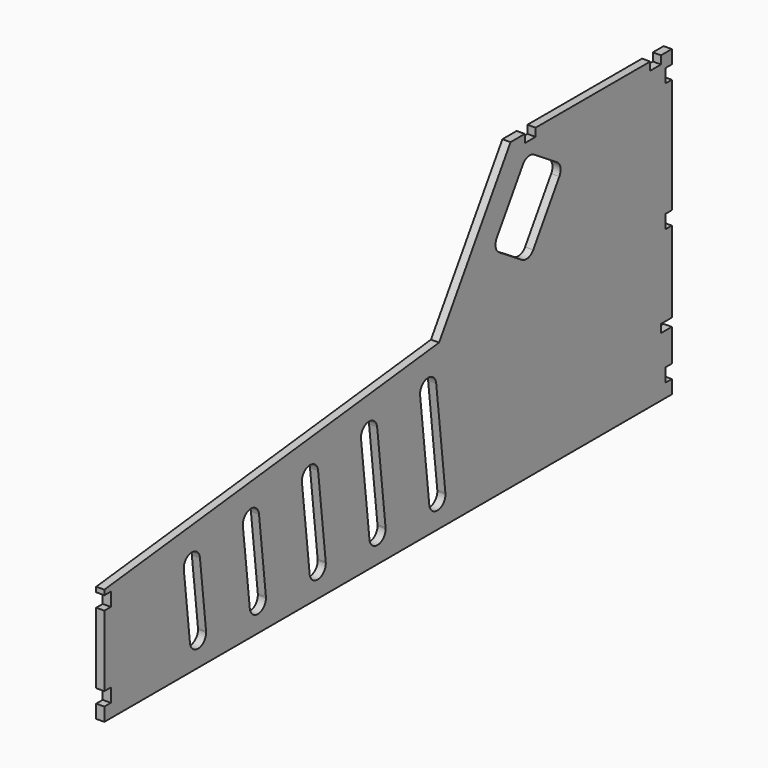
from build123d import *

# Parameters (mm, degrees)
F0_W     = 200
F0_H     = 460
F1_DEPTH = 12
F2_W     = 12
F2_H     = 20
F2_W_2   = 20
F2_H_2   = 22
F3_DEPTH = 25
F4_R     = 15
F5_W     = 20
F5_H     = 12
F6_DEPTH = 25
F7_DEPTH = 10
F8_DEPTH = 25


with BuildPart() as f1:
    # F0 (on Right) → F1 (new body)
    with BuildSketch(Plane.YZ):
        with BuildLine():
            Line((-738, 185), (-738, 134.6797614515))
            Line((-738, 134.6797614515), (-702.9045398359, 138.6581941826))
            ThreePointArc((-702.9045398359, 138.6581941826), (-689.6895834632, 155.2523174818), (-673.0954601641, 142.037361109))
            Line((-673.0954601641, 142.037361109), (-593.6045810391, 151.0484729126))
            ThreePointArc((-593.6045810391, 151.0484729126), (-580.3896246663, 167.6425962118), (-563.7955013672, 154.427639839))
            Line((-563.7955013672, 154.427639839), (-484.3046222422, 163.4387516427))
            ThreePointArc((-484.3046222422, 163.4387516427), (-471.0896658695, 180.0328749418), (-454.4955425704, 166.817918569))
            Line((-454.4955425704, 166.817918569), (-375.0046634454, 175.8290303727))
            ThreePointArc((-375.0046634454, 175.8290303727), (-361.7897070726, 192.4231536718), (-345.1955837735, 179.208197299))
            Line((-345.1955837735, 179.208197299), (-265.7047046485, 188.2193091027))
            ThreePointArc((-265.7047046485, 188.2193091027), (-252.4897482758, 204.8134324018), (-235.8956249767, 191.598476029))
            Line((-235.8956249767, 191.598476029), (-201.2256178564, 195.5286792653))
            Line((-201.2256178564, 195.5286792653), (-123.5209909069, 317.4817743388))
            Line((-123.5209909069, 317.4817743388), (-131.9545312744, 322.8553575818))
            Line((-131.9545312744, 322.8553575818), (-67.4715323582, 424.0578419919))
            Line((-67.4715323582, 424.0578419919), (-59.0379919907, 418.6842587489))
            Line((-59.0379919907, 418.6842587489), (-32.7129179192, 460))
            Line((-32.7129179192, 460), (-92, 460))
            Line((-92, 460), (-100.5596901216, 446.5660418925))
            Line((-100.5596901216, 446.5660418925), (-230.5697625024, 242.5224560726))
            Line((-230.5697625024, 242.5224560726), (-738, 185))
        make_face()
        with BuildLine():
            Line((-738, 185), (-738, 134.6797614515))
            Line((-738, 134.6797614515), (-702.9045398359, 138.6581941826))
            ThreePointArc((-702.9045398359, 138.6581941826), (-689.6895834632, 155.2523174818), (-673.0954601641, 142.037361109))
            Line((-673.0954601641, 142.037361109), (-593.6045810391, 151.0484729126))
            ThreePointArc((-593.6045810391, 151.0484729126), (-580.3896246663, 167.6425962118), (-563.7955013672, 154.427639839))
            Line((-563.7955013672, 154.427639839), (-484.3046222422, 163.4387516427))
            ThreePointArc((-484.3046222422, 163.4387516427), (-471.0896658695, 180.0328749418), (-454.4955425704, 166.817918569))
            Line((-454.4955425704, 166.817918569), (-375.0046634454, 175.8290303727))
            ThreePointArc((-375.0046634454, 175.8290303727), (-361.7897070726, 192.4231536718), (-345.1955837735, 179.208197299))
            Line((-345.1955837735, 179.208197299), (-265.7047046485, 188.2193091027))
            ThreePointArc((-265.7047046485, 188.2193091027), (-252.4897482758, 204.8134324018), (-235.8956249767, 191.598476029))
            Line((-235.8956249767, 191.598476029), (-201.2256178564, 195.5286792653))
            Line((-201.2256178564, 195.5286792653), (-123.5209909069, 317.4817743388))
            Line((-123.5209909069, 317.4817743388), (-131.9545312744, 322.8553575818))
            Line((-131.9545312744, 322.8553575818), (-67.4715323582, 424.0578419919))
            Line((-67.4715323582, 424.0578419919), (-59.0379919907, 418.6842587489))
            Line((-59.0379919907, 418.6842587489), (-32.7129179192, 460))
            Line((-32.7129179192, 460), (-92, 460))
            Line((-92, 460), (-100.5596901216, 446.5660418925))
            Line((-100.5596901216, 446.5660418925), (-230.5697625024, 242.5224560726))
            Line((-230.5697625024, 242.5224560726), (-738, 185))
        make_face()
        with BuildLine():
            Line((-593.6045810391, 151.0484729126), (-673.0954601641, 142.037361109))
            Line((-673.0954601641, 142.037361109), (-661.7200035888, 41.6895834632))
            ThreePointArc((-661.7200035888, 41.6895834632), (-661.6484274807, 40.8461390137), (-661.6245434248, 40))
            Line((-661.6245434248, 40), (-581.0160901826, 40))
            Line((-581.0160901826, 40), (-593.6045810391, 151.0484729126))
        make_face()
        with BuildLine():
            Line((-738, 0), (0, 0))
            Line((0, 0), (0, 460))
            Line((0, 460), (-32.7129179192, 460))
            Line((-32.7129179192, 460), (-59.0379919907, 418.6842587489))
            Line((-59.0379919907, 418.6842587489), (-0.0032094182, 381.0691760478))
            Line((-0.0032094182, 381.0691760478), (-64.4862083343, 279.8666916377))
            Line((-64.4862083343, 279.8666916377), (-123.5209909069, 317.4817743388))
            Line((-123.5209909069, 317.4817743388), (-201.2256178564, 195.5286792653))
            Line((-201.2256178564, 195.5286792653), (-231.0372798934, 148.7409319016))
            Line((-231.0372798934, 148.7409319016), (-218.9019043619, 41.6895834632))
            ThreePointArc((-218.9019043619, 41.6895834632), (-218.8303282538, 40.8461390137), (-218.8064441979, 40))
            ThreePointArc((-218.8064441979, 40), (-232.9603051842, 25.023884056), (-248.7109840338, 38.3104165368))
            Line((-248.7109840338, 38.3104165368), (-248.9025157624, 40))
            Line((-248.9025157624, 40), (-329.5109690046, 40))
            ThreePointArc((-329.5109690046, 40), (-343.6648299909, 25.023884056), (-359.4155088405, 38.3104165368))
            Line((-359.4155088405, 38.3104165368), (-359.6070405691, 40))
            Line((-359.6070405691, 40), (-440.2154938113, 40))
            ThreePointArc((-440.2154938113, 40), (-454.3693547976, 25.023884056), (-470.1200336472, 38.3104165368))
            Line((-470.1200336472, 38.3104165368), (-470.3115653759, 40))
            Line((-470.3115653759, 40), (-550.920018618, 40))
            ThreePointArc((-550.920018618, 40), (-565.0738796043, 25.023884056), (-580.824558454, 38.3104165368))
            Line((-580.824558454, 38.3104165368), (-581.0160901826, 40))
            Line((-581.0160901826, 40), (-661.6245434248, 40))
            ThreePointArc((-661.6245434248, 40), (-675.7784044111, 25.023884056), (-691.5290832607, 38.3104165368))
            Line((-691.5290832607, 38.3104165368), (-702.9045398359, 138.6581941826))
            Line((-702.9045398359, 138.6581941826), (-738, 134.6797614515))
            Line((-738, 134.6797614515), (-738, 0))
        make_face()
        with BuildLine():
            Line((-484.3046222422, 163.4387516427), (-563.7955013672, 154.427639839))
            Line((-563.7955013672, 154.427639839), (-551.0154787821, 41.6895834632))
            ThreePointArc((-551.0154787821, 41.6895834632), (-550.943902674, 40.8461390137), (-550.920018618, 40))
            Line((-550.920018618, 40), (-470.3115653759, 40))
            Line((-470.3115653759, 40), (-484.3046222422, 163.4387516427))
        make_face()
        with BuildLine():
            Line((-738, 185), (-738, 134.6797614515))
            Line((-738, 134.6797614515), (-702.9045398359, 138.6581941826))
            ThreePointArc((-702.9045398359, 138.6581941826), (-689.6895834632, 155.2523174818), (-673.0954601641, 142.037361109))
            Line((-673.0954601641, 142.037361109), (-593.6045810391, 151.0484729126))
            ThreePointArc((-593.6045810391, 151.0484729126), (-580.3896246663, 167.6425962118), (-563.7955013672, 154.427639839))
            Line((-563.7955013672, 154.427639839), (-484.3046222422, 163.4387516427))
            ThreePointArc((-484.3046222422, 163.4387516427), (-471.0896658695, 180.0328749418), (-454.4955425704, 166.817918569))
            Line((-454.4955425704, 166.817918569), (-375.0046634454, 175.8290303727))
            ThreePointArc((-375.0046634454, 175.8290303727), (-361.7897070726, 192.4231536718), (-345.1955837735, 179.208197299))
            Line((-345.1955837735, 179.208197299), (-265.7047046485, 188.2193091027))
            ThreePointArc((-265.7047046485, 188.2193091027), (-252.4897482758, 204.8134324018), (-235.8956249767, 191.598476029))
            Line((-235.8956249767, 191.598476029), (-201.2256178564, 195.5286792653))
            Line((-201.2256178564, 195.5286792653), (-123.5209909069, 317.4817743388))
            Line((-123.5209909069, 317.4817743388), (-131.9545312744, 322.8553575818))
            Line((-131.9545312744, 322.8553575818), (-67.4715323582, 424.0578419919))
            Line((-67.4715323582, 424.0578419919), (-59.0379919907, 418.6842587489))
            Line((-59.0379919907, 418.6842587489), (-32.7129179192, 460))
            Line((-32.7129179192, 460), (-92, 460))
            Line((-92, 460), (-100.5596901216, 446.5660418925))
            Line((-100.5596901216, 446.5660418925), (-230.5697625024, 242.5224560726))
            Line((-230.5697625024, 242.5224560726), (-738, 185))
        make_face()
        with BuildLine():
            Line((-738, 185), (-738, 134.6797614515))
            Line((-738, 134.6797614515), (-702.9045398359, 138.6581941826))
            ThreePointArc((-702.9045398359, 138.6581941826), (-689.6895834632, 155.2523174818), (-673.0954601641, 142.037361109))
            Line((-673.0954601641, 142.037361109), (-593.6045810391, 151.0484729126))
            ThreePointArc((-593.6045810391, 151.0484729126), (-580.3896246663, 167.6425962118), (-563.7955013672, 154.427639839))
            Line((-563.7955013672, 154.427639839), (-484.3046222422, 163.4387516427))
            ThreePointArc((-484.3046222422, 163.4387516427), (-471.0896658695, 180.0328749418), (-454.4955425704, 166.817918569))
            Line((-454.4955425704, 166.817918569), (-375.0046634454, 175.8290303727))
            ThreePointArc((-375.0046634454, 175.8290303727), (-361.7897070726, 192.4231536718), (-345.1955837735, 179.208197299))
            Line((-345.1955837735, 179.208197299), (-265.7047046485, 188.2193091027))
            ThreePointArc((-265.7047046485, 188.2193091027), (-252.4897482758, 204.8134324018), (-235.8956249767, 191.598476029))
            Line((-235.8956249767, 191.598476029), (-201.2256178564, 195.5286792653))
            Line((-201.2256178564, 195.5286792653), (-123.5209909069, 317.4817743388))
            Line((-123.5209909069, 317.4817743388), (-131.9545312744, 322.8553575818))
            Line((-131.9545312744, 322.8553575818), (-67.4715323582, 424.0578419919))
            Line((-67.4715323582, 424.0578419919), (-59.0379919907, 418.6842587489))
            Line((-59.0379919907, 418.6842587489), (-32.7129179192, 460))
            Line((-32.7129179192, 460), (-92, 460))
            Line((-92, 460), (-100.5596901216, 446.5660418925))
            Line((-100.5596901216, 446.5660418925), (-230.5697625024, 242.5224560726))
            Line((-230.5697625024, 242.5224560726), (-738, 185))
        make_face()
        with BuildLine():
            Line((-375.0046634454, 175.8290303727), (-454.4955425704, 166.817918569))
            Line((-454.4955425704, 166.817918569), (-440.3109539754, 41.6895834632))
            ThreePointArc((-440.3109539754, 41.6895834632), (-440.2393778673, 40.8461390137), (-440.2154938113, 40))
            Line((-440.2154938113, 40), (-359.6070405691, 40))
            Line((-359.6070405691, 40), (-375.0046634454, 175.8290303727))
        make_face()
        with BuildLine():
            Line((-256.6691814309, 108.513086433), (-265.7047046485, 188.2193091027))
            Line((-265.7047046485, 188.2193091027), (-345.1955837735, 179.208197299))
            Line((-345.1955837735, 179.208197299), (-329.6064291686, 41.6895834632))
            ThreePointArc((-329.6064291686, 41.6895834632), (-329.5348530605, 40.8461390137), (-329.5109690046, 40))
            Line((-329.5109690046, 40), (-248.9025157624, 40))
            Line((-248.9025157624, 40), (-256.6691814309, 108.513086433))
        make_face()
        with BuildLine():
            Line((-738, 185), (-738, 134.6797614515))
            Line((-738, 134.6797614515), (-702.9045398359, 138.6581941826))
            ThreePointArc((-702.9045398359, 138.6581941826), (-689.6895834632, 155.2523174818), (-673.0954601641, 142.037361109))
            Line((-673.0954601641, 142.037361109), (-593.6045810391, 151.0484729126))
            ThreePointArc((-593.6045810391, 151.0484729126), (-580.3896246663, 167.6425962118), (-563.7955013672, 154.427639839))
            Line((-563.7955013672, 154.427639839), (-484.3046222422, 163.4387516427))
            ThreePointArc((-484.3046222422, 163.4387516427), (-471.0896658695, 180.0328749418), (-454.4955425704, 166.817918569))
            Line((-454.4955425704, 166.817918569), (-375.0046634454, 175.8290303727))
            ThreePointArc((-375.0046634454, 175.8290303727), (-361.7897070726, 192.4231536718), (-345.1955837735, 179.208197299))
            Line((-345.1955837735, 179.208197299), (-265.7047046485, 188.2193091027))
            ThreePointArc((-265.7047046485, 188.2193091027), (-252.4897482758, 204.8134324018), (-235.8956249767, 191.598476029))
            Line((-235.8956249767, 191.598476029), (-201.2256178564, 195.5286792653))
            Line((-201.2256178564, 195.5286792653), (-123.5209909069, 317.4817743388))
            Line((-123.5209909069, 317.4817743388), (-131.9545312744, 322.8553575818))
            Line((-131.9545312744, 322.8553575818), (-67.4715323582, 424.0578419919))
            Line((-67.4715323582, 424.0578419919), (-59.0379919907, 418.6842587489))
            Line((-59.0379919907, 418.6842587489), (-32.7129179192, 460))
            Line((-32.7129179192, 460), (-92, 460))
            Line((-92, 460), (-100.5596901216, 446.5660418925))
            Line((-100.5596901216, 446.5660418925), (-230.5697625024, 242.5224560726))
            Line((-230.5697625024, 242.5224560726), (-738, 185))
        make_face()
        Polygon((-231.0372798934, 148.7409319016), (-201.2256178564, 195.5286792653), (-235.8956249767, 191.598476029), align=None)
        with Locations((100, 230)):
            Rectangle(F0_W, F0_H)
        with BuildLine():
            Line((-593.6045810391, 151.0484729126), (-673.0954601641, 142.037361109))
            Line((-673.0954601641, 142.037361109), (-661.7200035888, 41.6895834632))
            ThreePointArc((-661.7200035888, 41.6895834632), (-661.6484274807, 40.8461390137), (-661.6245434248, 40))
            Line((-661.6245434248, 40), (-581.0160901826, 40))
            Line((-581.0160901826, 40), (-593.6045810391, 151.0484729126))
        make_face()
        with BuildLine():
            Line((-484.3046222422, 163.4387516427), (-563.7955013672, 154.427639839))
            Line((-563.7955013672, 154.427639839), (-551.0154787821, 41.6895834632))
            ThreePointArc((-551.0154787821, 41.6895834632), (-550.943902674, 40.8461390137), (-550.920018618, 40))
            Line((-550.920018618, 40), (-470.3115653759, 40))
            Line((-470.3115653759, 40), (-484.3046222422, 163.4387516427))
        make_face()
        with BuildLine():
            Line((-375.0046634454, 175.8290303727), (-454.4955425704, 166.817918569))
            Line((-454.4955425704, 166.817918569), (-440.3109539754, 41.6895834632))
            ThreePointArc((-440.3109539754, 41.6895834632), (-440.2393778673, 40.8461390137), (-440.2154938113, 40))
            Line((-440.2154938113, 40), (-359.6070405691, 40))
            Line((-359.6070405691, 40), (-375.0046634454, 175.8290303727))
        make_face()
        with BuildLine():
            Line((-256.6691814309, 108.513086433), (-265.7047046485, 188.2193091027))
            Line((-265.7047046485, 188.2193091027), (-345.1955837735, 179.208197299))
            Line((-345.1955837735, 179.208197299), (-329.6064291686, 41.6895834632))
            ThreePointArc((-329.6064291686, 41.6895834632), (-329.5348530605, 40.8461390137), (-329.5109690046, 40))
            Line((-329.5109690046, 40), (-248.9025157624, 40))
            Line((-248.9025157624, 40), (-256.6691814309, 108.513086433))
        make_face()
        with BuildLine():
            Line((-738, 0), (0, 0))
            Line((0, 0), (0, 460))
            Line((0, 460), (-32.7129179192, 460))
            Line((-32.7129179192, 460), (-59.0379919907, 418.6842587489))
            Line((-59.0379919907, 418.6842587489), (-0.0032094182, 381.0691760478))
            Line((-0.0032094182, 381.0691760478), (-64.4862083343, 279.8666916377))
            Line((-64.4862083343, 279.8666916377), (-123.5209909069, 317.4817743388))
            Line((-123.5209909069, 317.4817743388), (-201.2256178564, 195.5286792653))
            Line((-201.2256178564, 195.5286792653), (-231.0372798934, 148.7409319016))
            Line((-231.0372798934, 148.7409319016), (-218.9019043619, 41.6895834632))
            ThreePointArc((-218.9019043619, 41.6895834632), (-218.8303282538, 40.8461390137), (-218.8064441979, 40))
            ThreePointArc((-218.8064441979, 40), (-232.9603051842, 25.023884056), (-248.7109840338, 38.3104165368))
            Line((-248.7109840338, 38.3104165368), (-248.9025157624, 40))
            Line((-248.9025157624, 40), (-329.5109690046, 40))
            ThreePointArc((-329.5109690046, 40), (-343.6648299909, 25.023884056), (-359.4155088405, 38.3104165368))
            Line((-359.4155088405, 38.3104165368), (-359.6070405691, 40))
            Line((-359.6070405691, 40), (-440.2154938113, 40))
            ThreePointArc((-440.2154938113, 40), (-454.3693547976, 25.023884056), (-470.1200336472, 38.3104165368))
            Line((-470.1200336472, 38.3104165368), (-470.3115653759, 40))
            Line((-470.3115653759, 40), (-550.920018618, 40))
            ThreePointArc((-550.920018618, 40), (-565.0738796043, 25.023884056), (-580.824558454, 38.3104165368))
            Line((-580.824558454, 38.3104165368), (-581.0160901826, 40))
            Line((-581.0160901826, 40), (-661.6245434248, 40))
            ThreePointArc((-661.6245434248, 40), (-675.7784044111, 25.023884056), (-691.5290832607, 38.3104165368))
            Line((-691.5290832607, 38.3104165368), (-702.9045398359, 138.6581941826))
            Line((-702.9045398359, 138.6581941826), (-738, 134.6797614515))
            Line((-738, 134.6797614515), (-738, 0))
        make_face()
        Polygon((-850, 0), (-738, 0), (-738, 134.6797614515), (-738, 185), (-850, 172.3036437247), align=None)
    extrude(amount=F1_DEPTH)

    # F2 (on face) → F3 (cut)
    with BuildSketch(Plane.YZ.offset(12)):
        with Locations((-844, 30)):
            Rectangle(F2_W, F2_H)
        with Locations((-844, 155)):
            Rectangle(F2_W, F2_H)
        with Locations((194, 30)):
            Rectangle(F2_W, F2_H)
        with Locations((194, 230)):
            Rectangle(F2_W, F2_H)
        with Locations((194, 420)):
            Rectangle(F2_W, F2_H)
        with Locations((170, 449)):
            Rectangle(F2_W_2, F2_H_2)
        with Locations((-62, 449)):
            Rectangle(F2_W_2, F2_H_2)
    extrude(amount=-F3_DEPTH, mode=Mode.SUBTRACT)

    # F4
    f4_edges = [f1.edges().sort_by_distance(p)[0] for p in [
        (6, -67.471532, 424.057842),
        (6, -131.954531, 322.855358),
        (6, -0.003209, 381.069176),
        (6, -64.486208, 279.866692),
    ]]
    fillet(f4_edges, radius=F4_R)

    # F5 (on face) → F6 (cut)
    with BuildSketch(Plane.YZ.offset(12)):
        with Locations((190, 94)):
            Rectangle(F5_W, F5_H)
    extrude(amount=-F6_DEPTH, mode=Mode.SUBTRACT)

    # F7 (cut): faces of the model
    f7_faces = [f1.faces().sort_by_distance(p)[0] for p in [
        (6, -82, 460),
        (6, 54, 460),
        (6, 190, 460),
    ]]
    extrude(f7_faces, amount=-F7_DEPTH, mode=Mode.SUBTRACT)

    # F8 (cut): a face of the model
    f8_faces = [f1.faces().sort_by_distance(p)[0] for p in [
        (6, -92, 455),
    ]]
    extrude(f8_faces, amount=-F8_DEPTH, mode=Mode.SUBTRACT)


solid = f1.part
